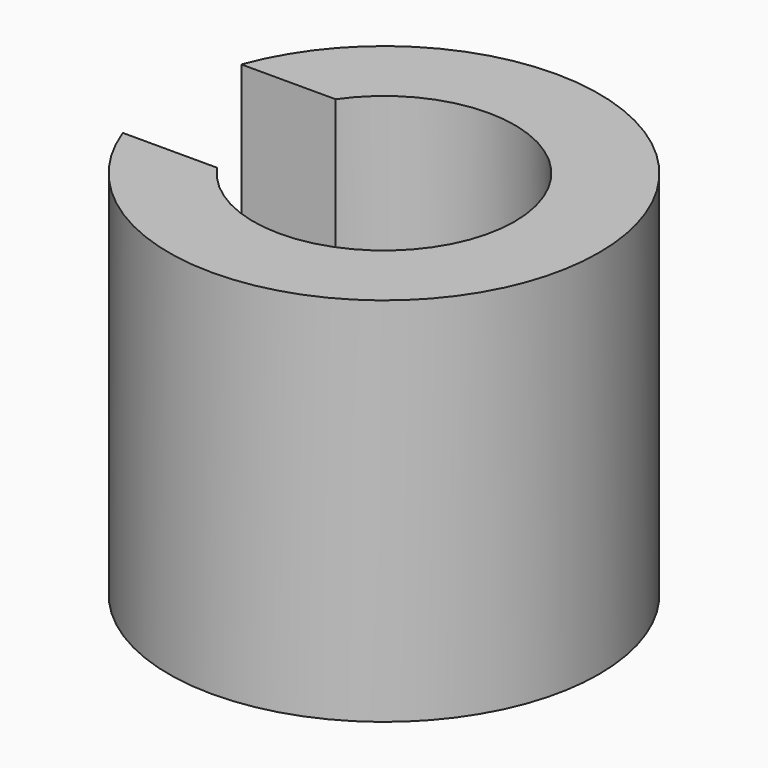
from build123d import *

# Parameters (mm, degrees)
F1_DEPTH = 2.2


with BuildPart() as f1:
    # F0 (on Top) → F1 (new body, symmetric)
    with BuildSketch(Plane.XY):
        with BuildLine():
            ThreePointArc((-2.3937715127, -0.8788389756), (0, -2.55), (2.3937715127, -0.8788389756))
            Line((2.3937715127, -0.8788389756), (1.2767701653, -0.8788389756))
            ThreePointArc((1.2767701653, -0.8788389756), (0, -1.55), (-1.2767701653, -0.8788389756))
            Line((-1.2767701653, -0.8788389756), (-2.3937715127, -0.8788389756))
        make_face()
        with BuildLine():
            Line((1.2767701653, 0.8788389756), (2.3937715127, 0.8788389756))
            ThreePointArc((2.3937715127, 0.8788389756), (0, 2.55), (-2.3937715127, 0.8788389756))
            Line((-2.3937715127, 0.8788389756), (-1.2767701653, 0.8788389756))
            ThreePointArc((-1.2767701653, 0.8788389756), (0, 1.55), (1.2767701653, 0.8788389756))
        make_face()
        with BuildLine():
            ThreePointArc((2.3937715127, -0.8788389756), (2.5106390977, -0.4463085494), (2.55, 0))
            ThreePointArc((2.55, 0), (2.5106390977, 0.4463085494), (2.3937715127, 0.8788389756))
            Line((2.3937715127, 0.8788389756), (1.2767701653, 0.8788389756))
            ThreePointArc((1.2767701653, 0.8788389756), (1.4801171839, 0.4601664067), (1.55, 0))
            ThreePointArc((1.55, 0), (1.4801171839, -0.4601664067), (1.2767701653, -0.8788389756))
            Line((1.2767701653, -0.8788389756), (2.3937715127, -0.8788389756))
        make_face()
    extrude(amount=F1_DEPTH, both=True)


solid = f1.part
